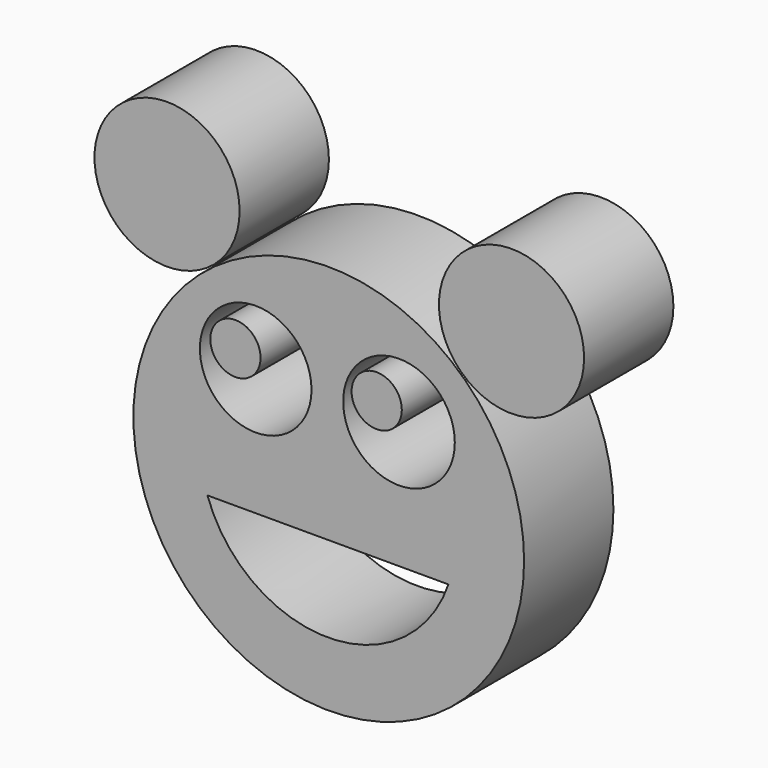
from build123d import *

# Parameters (mm, degrees)
F0_R     = 16.51
F0_R_2   = 44.45
F0_R_3   = 12.7
F0_R_4   = 5.715
F1_DEPTH = 25.4


with BuildPart() as f1:
    # F0 (on Front) → F1 (new body)
    with BuildSketch(Plane.XZ):
        with Locations((41.585071, 45.081161)):
            Circle(F0_R)
        with Locations((-36.793161, 49.024165)):
            Circle(F0_R)
        Circle(F0_R_2)
        with BuildLine():
            ThreePointArc((27.232699, -10.304265), (-0.184006, -29.856091), (-27.600711, -10.304265))
            Line((-27.600711, -10.304265), (27.232699, -10.304265))
        make_face(mode=Mode.SUBTRACT)
        with Locations((-16.623441, 18.550344)):
            Circle(F0_R_3, mode=Mode.SUBTRACT)
        with Locations((15.981161, 18.550344)):
            Circle(F0_R_3, mode=Mode.SUBTRACT)
        with Locations((-21.227399, 21.181179)):
            Circle(F0_R_4)
        with Locations((10.907708, 21.181179)):
            Circle(F0_R_4)
    extrude(amount=F1_DEPTH)


solid = f1.part
